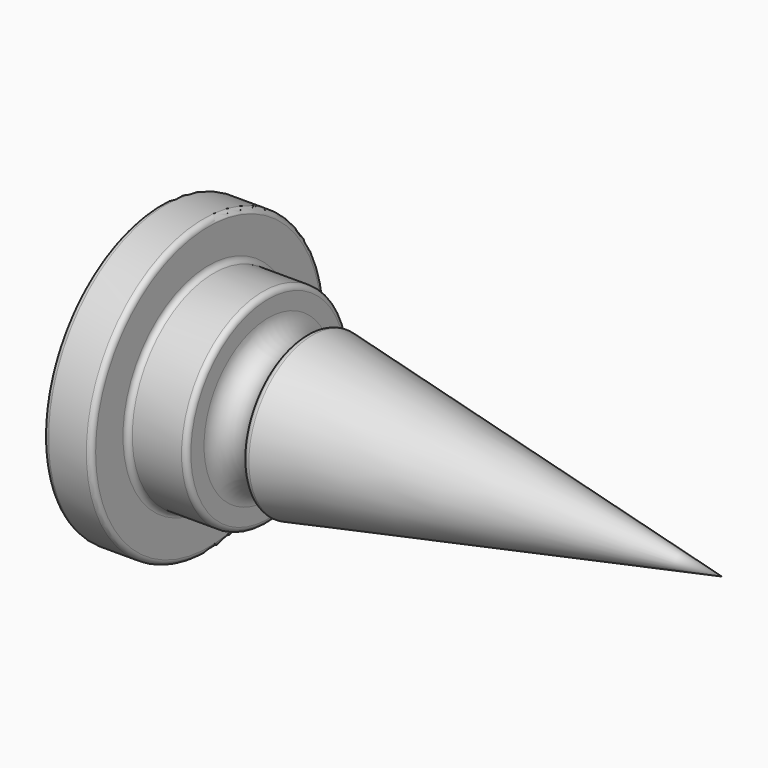
from build123d import *

# Parameters (mm, degrees)
F2_R = 0.127


with BuildPart() as f1:
    # F0 (on Top) → F1 (revolve)
    with BuildSketch(Plane.XY):
        with BuildLine():
            Line((99.2301404476, -3.2406176906), (98.0506315827, -3.2406176906))
            Line((98.0506315827, -3.2406176906), (98.0506315827, -6.8282899447))
            Line((98.0506315827, -6.8282899447), (111.8115633726, -6.8282899447))
            Line((111.8115633726, -6.8282899447), (101.638302207, -4.862442147))
            ThreePointArc((101.638302207, -4.862442147), (101.164765656, -5.335978698), (100.691229105, -4.862442147))
            Line((100.691229105, -4.862442147), (100.691229105, -4.3311002664))
            Line((100.691229105, -4.3311002664), (99.2301404476, -4.3311002664))
            Line((99.2301404476, -4.3311002664), (99.2301404476, -3.2406176906))
        make_face()
    revolve(axis=Axis((102.0068973303, -6.8282899447, 0), (-1, 0, 0)))

    # F2
    f2_edges = [f1.edges().sort_by_distance(p)[0] for p in [
        (99.23014, -10.415962, 0),
        (98.050632, -10.415962, 0),
        (98.640386, -3.240618, 0),
        (100.691229, -9.32548, 0),
        (101.638302, -8.794138, 0),
        (99.23014, -9.32548, 0),
    ]]
    fillet(f2_edges, radius=F2_R)


solid = f1.part
